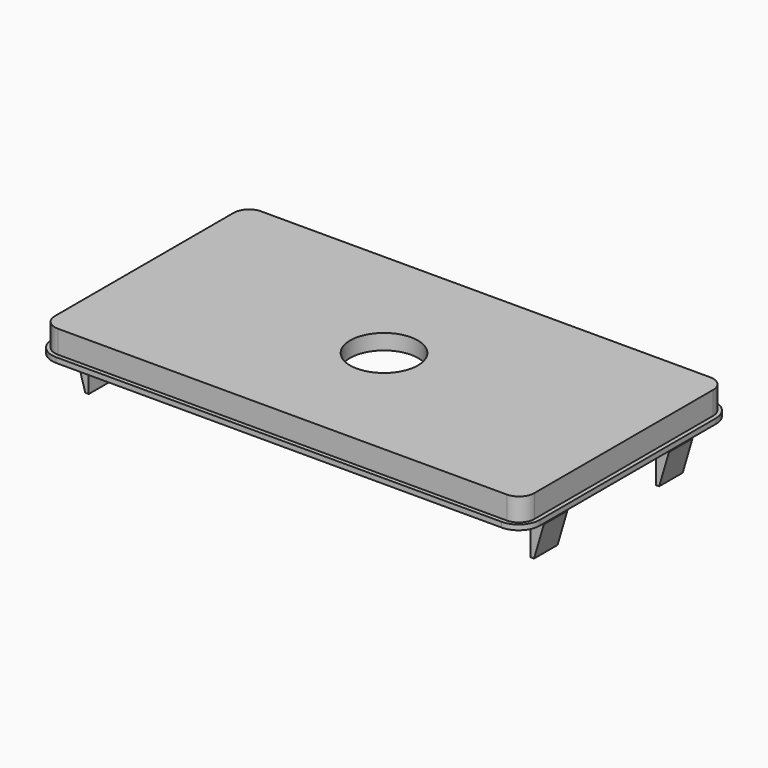
from build123d import *

# Parameters (mm, degrees)
F0_R     = 5.08
F1_DEPTH = 0.762
F2_R     = 5.08
F3_DEPTH = 4.191
F4_W     = 60.96
F4_H     = 27.686
F5_DEPTH = 1.8796
F7_DEPTH = 13.9319
F8_DEPTH = 9.525


with BuildPart() as f1:
    # F0 (on Top) → F1 (new body)
    with BuildSketch(Plane.XY):
        with BuildLine():
            Line((33.401, 19.685), (-33.401, 19.685))
            ThreePointArc((-33.401, 19.685), (-35.646064, 18.755064), (-36.576, 16.51))
            Line((-36.576, 16.51), (-36.576, -16.51))
            ThreePointArc((-36.576, -16.51), (-35.646064, -18.755064), (-33.401, -19.685))
            Line((-33.401, -19.685), (33.401, -19.685))
            ThreePointArc((33.401, -19.685), (35.646064, -18.755064), (36.576, -16.51))
            Line((36.576, -16.51), (36.576, 16.51))
            ThreePointArc((36.576, 16.51), (35.646064, 18.755064), (33.401, 19.685))
        make_face()
        Circle(F0_R, mode=Mode.SUBTRACT)
    extrude(amount=F1_DEPTH)

    # F2 (on Top) → F3 (join)
    with BuildSketch(Plane.XY):
        with BuildLine():
            Line((33.655, 19.05), (-33.655, 19.05))
            ThreePointArc((-33.655, 19.05), (-35.271446, 18.380446), (-35.941, 16.764))
            Line((-35.941, 16.764), (-35.941, -16.764))
            ThreePointArc((-35.941, -16.764), (-35.271446, -18.380446), (-33.655, -19.05))
            Line((-33.655, -19.05), (33.655, -19.05))
            ThreePointArc((33.655, -19.05), (35.271446, -18.380446), (35.941, -16.764))
            Line((35.941, -16.764), (35.941, 16.764))
            ThreePointArc((35.941, 16.764), (35.271446, 18.380446), (33.655, 19.05))
        make_face()
        Circle(F2_R, mode=Mode.SUBTRACT)
    extrude(amount=F3_DEPTH)

    # F4 (on Top) → F5 (cut)
    with BuildSketch(Plane.XY):
        Rectangle(F4_W, F4_H)
    extrude(amount=F5_DEPTH, mode=Mode.SUBTRACT)

    # F6 (on Front) → F7 (join, symmetric)
    with BuildSketch(Plane.XZ):
        Polygon((-33.1343, 0), (-34.4805, 0), (-34.4805, -1.3462), (-35.1155, -1.3462), (-33.6423, -6.35), (-33.1343, -6.35), align=None)
        Polygon((33.1343, 0), (33.1343, -6.35), (33.6423, -6.35), (35.1155, -1.3462), (34.4805, -1.3462), (34.4805, 0), align=None)
    extrude(amount=F7_DEPTH, both=True)

    # F6 (on Front) → F8 (cut, symmetric)
    with BuildSketch(Plane.XZ):
        Polygon((-33.1343, 0), (-34.4805, 0), (-34.4805, -1.3462), (-35.1155, -1.3462), (-33.6423, -6.35), (-33.1343, -6.35), align=None)
        Polygon((33.1343, 0), (33.1343, -6.35), (33.6423, -6.35), (35.1155, -1.3462), (34.4805, -1.3462), (34.4805, 0), align=None)
    extrude(amount=F8_DEPTH, both=True, mode=Mode.SUBTRACT)


solid = f1.part
